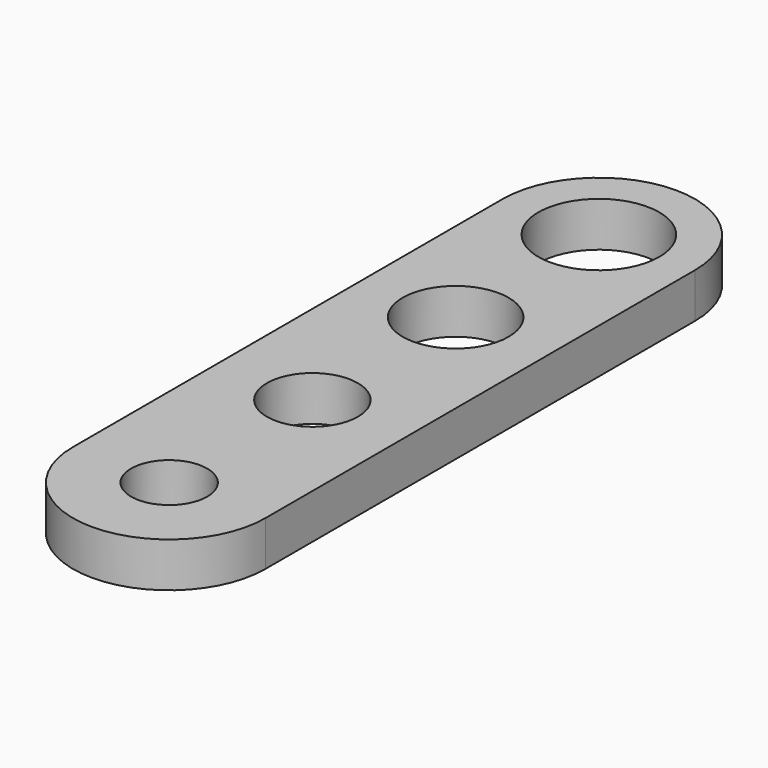
from build123d import *

# Parameters (mm, degrees)
F0_R     = 2.55
F0_R_2   = 3.05
F0_R_3   = 3.55
F0_R_4   = 4.05
F1_DEPTH = 3


with BuildPart() as f1:
    # F0 (on Top) → F1 (new body)
    with BuildSketch(Plane.XY):
        with BuildLine():
            Line((-6.45, 18), (-6.45, -18))
            ThreePointArc((-6.45, -18), (0, -24.45), (6.45, -18))
            Line((6.45, -18), (6.45, 18))
            ThreePointArc((6.45, 18), (0, 24.45), (-6.45, 18))
        make_face()
        with Locations((0, -18)):
            Circle(F0_R, mode=Mode.SUBTRACT)
        with Locations((0, -6)):
            Circle(F0_R_2, mode=Mode.SUBTRACT)
        with Locations((0, 6)):
            Circle(F0_R_3, mode=Mode.SUBTRACT)
        with Locations((0, 18)):
            Circle(F0_R_4, mode=Mode.SUBTRACT)
    extrude(amount=F1_DEPTH)


solid = f1.part
